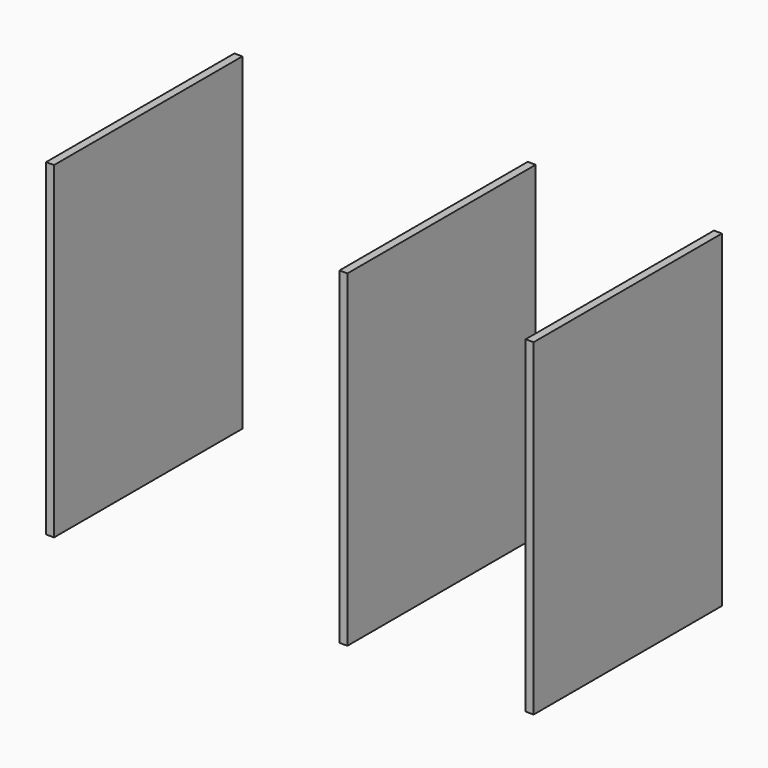
from build123d import *

# Parameters (mm, degrees)
F1_DEPTH = 560
F2_DEPTH = 560
F3_DEPTH = 560


with BuildPart() as f1:
    # F0 (on Front) → F1 (new body)
    with BuildSketch(Plane.XZ):
        Polygon((-580, 390), (-580, -390), (-561, -390), (-561, -330), (-561, 270), (-561, 289), (-561, 390), align=None)
    extrude(amount=F1_DEPTH)


with BuildPart() as f2:
    # F0 (on Front) → F2 (new body)
    with BuildSketch(Plane.XZ):
        Polygon((561, -330), (561, -390), (580, -390), (580, 390), (561, 390), (561, 139), (561, 120), align=None)
    extrude(amount=F2_DEPTH)


with BuildPart() as f3:
    # F0 (on Front) → F3 (new body)
    with BuildSketch(Plane.XZ):
        Polygon((118, 216), (118, -390), (137, -390), (137, -330), (137, 120), (137, 139), (137, 390), (118, 390), (118, 235), align=None)
    extrude(amount=F3_DEPTH)


solid = Compound([f1.part, f2.part, f3.part])
